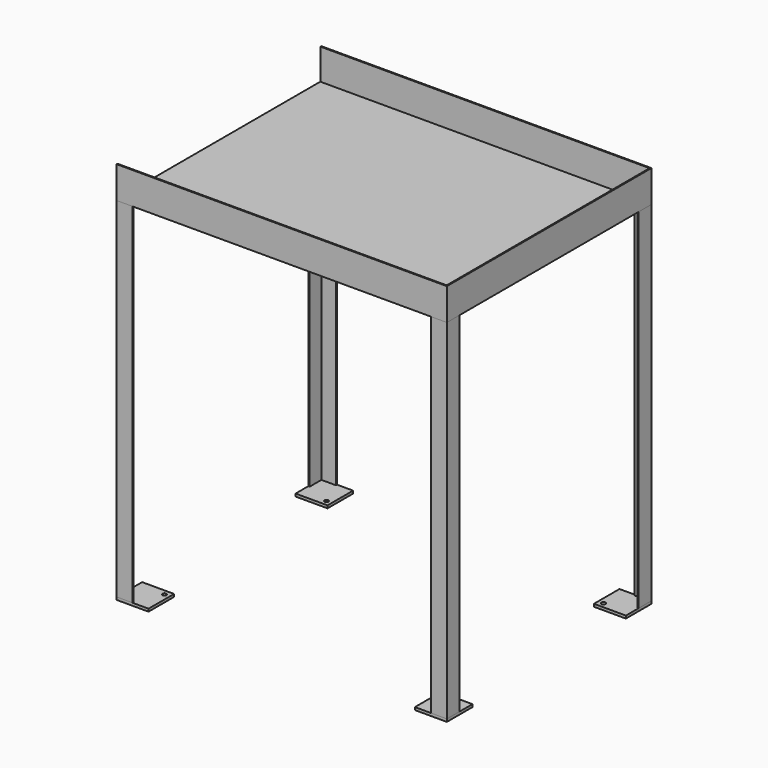
from build123d import *

# Parameters (mm, degrees)
F0_W     = 787.4
F0_H     = 609.6
F1_DEPTH = 76.2
F2_T     = -2.54
F3_W     = 604.52
F3_H     = 73.66
F4_DEPTH = 25.4
F6_DEPTH = 831.85
F7_R     = 4.7625
F8_DEPTH = 6.35
F7_W     = 76.2
F7_H     = 76.2


with BuildPart() as f1:
    # F0 (on Top) → F1 (new body)
    with BuildSketch(Plane.XY):
        Rectangle(F0_W, F0_H)
    extrude(amount=F1_DEPTH)

    # F2
    f2_openings = [f1.faces().sort_by_distance(p)[0] for p in [
        (0, 0, 76.2),
    ]]
    offset(amount=F2_T, openings=f2_openings)

    # F3 (on face) → F4 (cut)
    with BuildSketch(Plane.YZ.offset(-391.16)):
        with Locations((0, 39.37)):
            Rectangle(F3_W, F3_H)
    extrude(amount=-F4_DEPTH, mode=Mode.SUBTRACT)


with BuildPart() as f6:
    # F5 (on face) → F6 (new body)
    with BuildSketch(Plane(origin=(0, 0, 0), x_dir=(1, 0, 0), z_dir=(0, 0, -1))):
        Polygon((-355.6, 304.8), (-393.7, 304.8), (-393.7, 266.7), (-390.525, 266.7), (-390.525, 301.625), (-355.6, 301.625), align=None)
    extrude(amount=F6_DEPTH)


with BuildPart() as f6b:
    # F5 (on face) → F6, piece 2 (new body)
    with BuildSketch(Plane(origin=(0, 0, 0), x_dir=(1, 0, 0), z_dir=(0, 0, -1))):
        Polygon((-390.525, -266.7), (-393.7, -266.7), (-393.7, -304.8), (-355.6, -304.8), (-355.6, -301.625), (-390.525, -301.625), align=None)
    extrude(amount=F6_DEPTH)


with BuildPart() as f6c:
    # F5 (on face) → F6, piece 3 (new body)
    with BuildSketch(Plane(origin=(0, 0, 0), x_dir=(1, 0, 0), z_dir=(0, 0, -1))):
        Polygon((393.7, -304.8), (393.7, -266.7), (390.525, -266.7), (390.525, -301.625), (355.6, -301.625), (355.6, -304.8), align=None)
    extrude(amount=F6_DEPTH)


with BuildPart() as f6d:
    # F5 (on face) → F6, piece 4 (new body)
    with BuildSketch(Plane(origin=(0, 0, 0), x_dir=(1, 0, 0), z_dir=(0, 0, -1))):
        Polygon((393.7, 304.8), (355.6, 304.8), (355.6, 301.625), (390.525, 301.625), (390.525, 266.7), (393.7, 266.7), align=None)
    extrude(amount=F6_DEPTH)


with BuildPart() as f8:
    # F7 (on face) → F8 (new body)
    with BuildSketch(Plane(origin=(0, 0, -831.85), x_dir=(1, 0, 0), z_dir=(0, 0, -1))):
        Polygon((-317.5, 304.8), (-355.6, 304.8), (-355.6, 301.625), (-390.525, 301.625), (-390.525, 266.7), (-393.7, 266.7), (-393.7, 228.6), (-317.5, 228.6), align=None)
        with Locations((-330.2, 241.3)):
            Circle(F7_R, mode=Mode.SUBTRACT)
        Polygon((-355.6, 304.8), (-393.7, 304.8), (-393.7, 266.7), (-390.525, 266.7), (-390.525, 301.625), (-355.6, 301.625), align=None)
    extrude(amount=F8_DEPTH)


with BuildPart() as f8b:
    # F7 (on face) → F8, piece 2 (new body)
    with BuildSketch(Plane(origin=(0, 0, -831.85), x_dir=(1, 0, 0), z_dir=(0, 0, -1))):
        with Locations((-355.6, -266.7)):
            Rectangle(F7_W, F7_H)
        with Locations((-330.2, -241.3)):
            Circle(F7_R, mode=Mode.SUBTRACT)
    extrude(amount=F8_DEPTH)


with BuildPart() as f8c:
    # F7 (on face) → F8, piece 3 (new body)
    with BuildSketch(Plane(origin=(0, 0, -831.85), x_dir=(1, 0, 0), z_dir=(0, 0, -1))):
        with Locations((355.6, -266.7)):
            Rectangle(F7_W, F7_H)
        with Locations((330.2, -241.3)):
            Circle(F7_R, mode=Mode.SUBTRACT)
    extrude(amount=F8_DEPTH)


with BuildPart() as f8d:
    # F7 (on face) → F8, piece 4 (new body)
    with BuildSketch(Plane(origin=(0, 0, -831.85), x_dir=(1, 0, 0), z_dir=(0, 0, -1))):
        with Locations((355.6, 266.7)):
            Rectangle(F7_W, F7_H)
        with Locations((330.2, 241.3)):
            Circle(F7_R, mode=Mode.SUBTRACT)
    extrude(amount=F8_DEPTH)


solid = Compound([f1.part, f6.part, f6b.part, f6c.part, f6d.part, f8.part, f8b.part, f8c.part, f8d.part])
